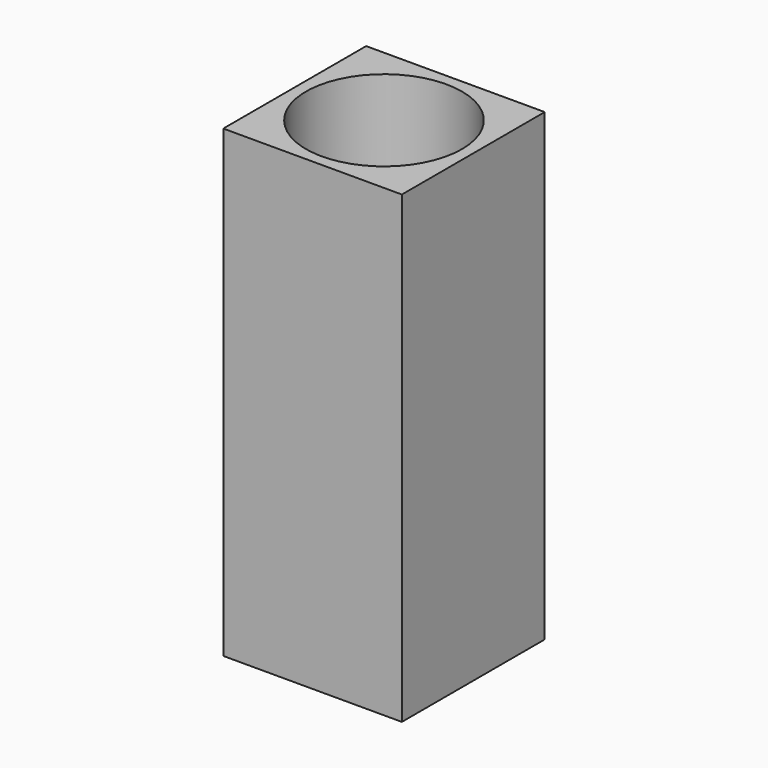
from build123d import *

# Parameters (mm, degrees)
F0_W     = 127
F0_H     = 127
F0_R     = 55.47513
F1_DEPTH = 330.2
F2_DEPTH = 330.201


with BuildPart() as f1:
    # F0 (on Top) → F1 (new body)
    with BuildSketch(Plane.XY):
        with Locations((-63.5, 63.5)):
            Rectangle(F0_W, F0_H)
        with Locations((-63.5, 63.5)):
            Circle(F0_R, mode=Mode.SUBTRACT)
    extrude(amount=F1_DEPTH)

    # F0 (on Top) → F2 (cut, through all)
    with BuildSketch(Plane.XY):
        with Locations((-63.5, 63.5)):
            Circle(F0_R)
    extrude(amount=F2_DEPTH, mode=Mode.SUBTRACT)


solid = f1.part
